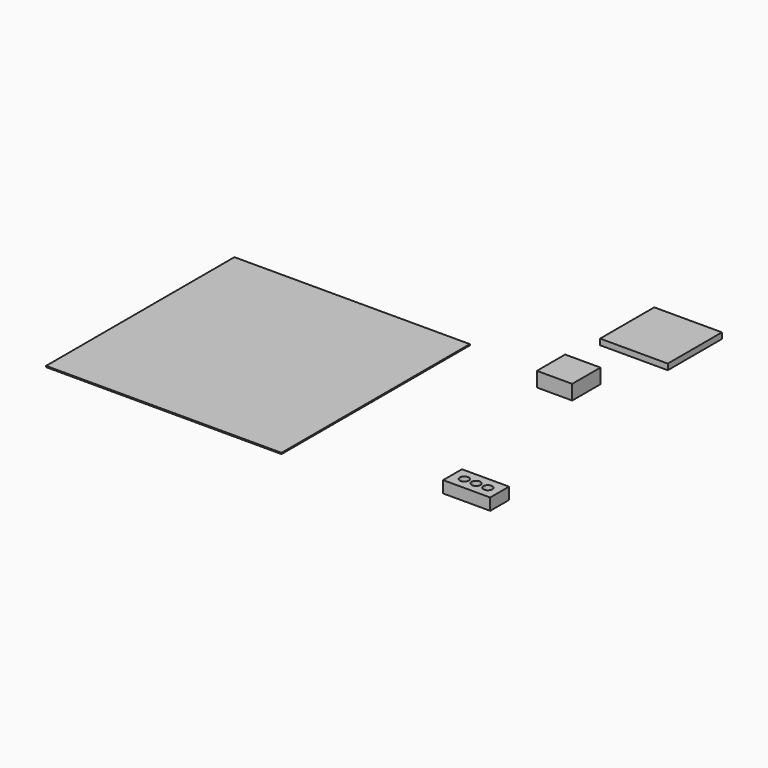
from build123d import *

# Parameters (mm, degrees)
F0_W     = 292.1
F0_H     = 292.1
F1_DEPTH = 25.4
F0_W_2   = 152.4
F0_H_2   = 152.4
F2_DEPTH = 63.5
F0_W_3   = 1016
F0_H_3   = 1016
F0_R     = 1.27
F3_DEPTH = 5.08
F4_W     = 203.2
F4_H     = 101.6
F4_R     = 19.05
F5_DEPTH = 50.8


with BuildPart() as f1:
    # F0 (on Top) → F1 (new body)
    with BuildSketch(Plane.XY):
        with Locations((1211.633325, 1557.991385)):
            Rectangle(F0_W, F0_H)
    extrude(amount=F1_DEPTH)


with BuildPart() as f2:
    # F0 (on Top) → F2 (new body)
    with BuildSketch(Plane.XY):
        with Locations((1168.224207, 1114.151708)):
            Rectangle(F0_W_2, F0_H_2)
    extrude(amount=F2_DEPTH)


with BuildPart() as f3:
    # F0 (on Top) → F3 (new body)
    with BuildSketch(Plane.XY):
        with Locations((215.546204, 628.631345)):
            Rectangle(F0_W_3, F0_H_3)
        with Locations((215.546204, 628.631345)):
            Circle(F0_R, mode=Mode.SUBTRACT)
    extrude(amount=F3_DEPTH)


with BuildPart() as f5:
    # F4 (on Top) → F5 (new body)
    with BuildSketch(Plane.XY):
        with Locations((1429.853269, 287.575413)):
            Rectangle(F4_W, F4_H)
        with Locations((1379.053269, 287.575413)):
            Circle(F4_R, mode=Mode.SUBTRACT)
        with Locations((1429.853269, 287.575413)):
            Circle(F4_R, mode=Mode.SUBTRACT)
        with Locations((1480.653269, 287.575413)):
            Circle(F4_R, mode=Mode.SUBTRACT)
    extrude(amount=F5_DEPTH)


solid = Compound([f1.part, f2.part, f3.part, f5.part])
